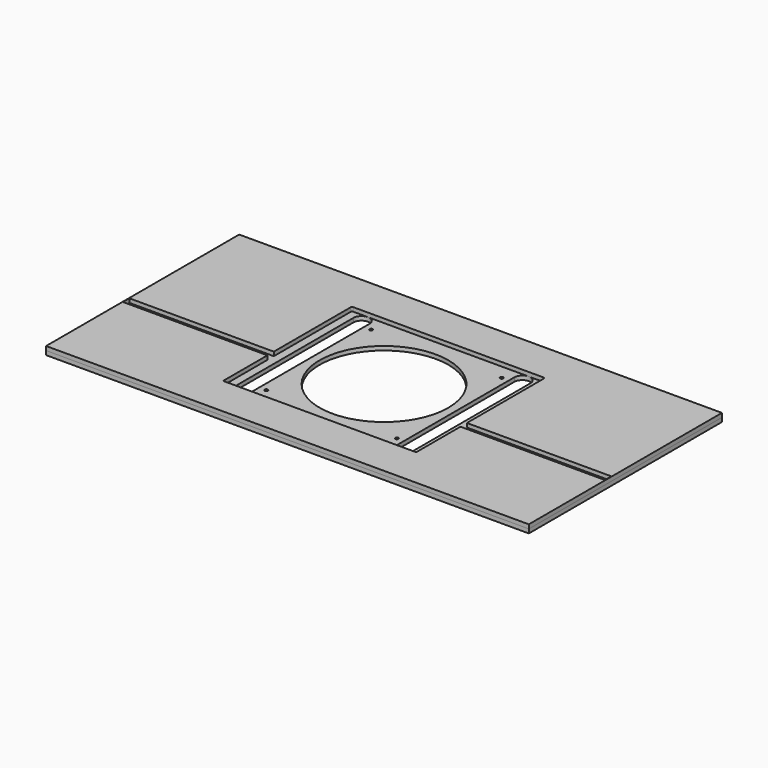
from build123d import *

# Parameters (mm, degrees)
SKETCH_W        = 600
SKETCH_H        = 300
PAD_DEPTH       = 5
POCKET_DEPTH    = 5
SKETCH002_W     = 600
SKETCH002_H     = 300
PAD001_DEPTH    = 5
SKETCH003_R     = 80
SKETCH003_R_2   = 2
POCKET001_DEPTH = 5


with BuildPart() as base01:
    # Sketch → Pad (new body)
    with BuildSketch(Plane.XY):
        Rectangle(SKETCH_W, SKETCH_H)
    extrude(amount=PAD_DEPTH)

    # Sketch001 (on Face6 of Pad) → Pocket (cut)
    with BuildSketch(Plane.XY.offset(5)):
        with BuildLine():
            Line((-118.502435, 100), (118.502435, 100))
            ThreePointArc((120.002435, 98.499939), (119.563116, 99.560639), (118.502435, 100))
            Line((120.002435, 98.499939), (119.997565, -21.185131))
            Line((119.997565, -21.185131), (299.5, -21.185131))
            Line((299.5, -21.185131), (299.5, -31.185131))
            Line((299.5, -31.185131), (120.002435, -31.185131))
            Line((120.002435, -31.185131), (120.002435, -98.5))
            ThreePointArc((118.502404, -100), (119.563084, -99.560671), (120.002435, -98.5))
            Line((118.502404, -100), (-118.502465, -99.995131))
            ThreePointArc((-119.997565, -98.5), (-119.559663, -99.557206), (-118.502465, -99.995131))
            Line((-119.997565, -98.5), (-119.997565, -31.185131))
            Line((-299.5, -31.185131), (-119.997565, -31.185131))
            Line((-299.5, -21.185131), (-299.5, -31.185131))
            Line((-119.997565, -21.185131), (-299.5, -21.185131))
            Line((-119.997565, -21.185131), (-119.997565, 98.379233))
            ThreePointArc((-118.502435, 100), (-119.604966, 99.517067), (-119.997565, 98.379233))
        make_face()
    extrude(amount=-POCKET_DEPTH, mode=Mode.SUBTRACT)


with BuildPart() as base002:
    # Sketch002 → Pad001 (new body)
    with BuildSketch(Plane.XY.offset(-5)):
        Rectangle(SKETCH002_W, SKETCH002_H)
    extrude(amount=PAD001_DEPTH)

    # Sketch003 (on Face6 of Pad001) → Pocket001 (cut)
    with BuildSketch(Plane.XY):
        Circle(SKETCH003_R)
        with Locations((-81.098877, 81.443512)):
            Circle(SKETCH003_R_2)
        with Locations((81.098877, 81.443512)):
            Circle(SKETCH003_R_2)
        with Locations((-81.098877, -81.443512)):
            Circle(SKETCH003_R_2)
        with Locations((81.098877, -81.443512)):
            Circle(SKETCH003_R_2)
        with BuildLine():
            ThreePointArc((-90, 90), (-100, 100), (-110, 90))
            Line((-110, 90), (-110, -90))
            ThreePointArc((-110, -90), (-100, -100), (-90, -90))
            Line((-90, -90), (-90, 90))
        make_face()
        with BuildLine():
            ThreePointArc((110, 90), (100, 100), (90, 90))
            Line((90, 90), (90, -90))
            ThreePointArc((90, -90), (100, -100), (110, -90))
            Line((110, -90), (110, 90))
        make_face()
    extrude(amount=-POCKET001_DEPTH, mode=Mode.SUBTRACT)


solid = Compound([base01.part, base002.part])
